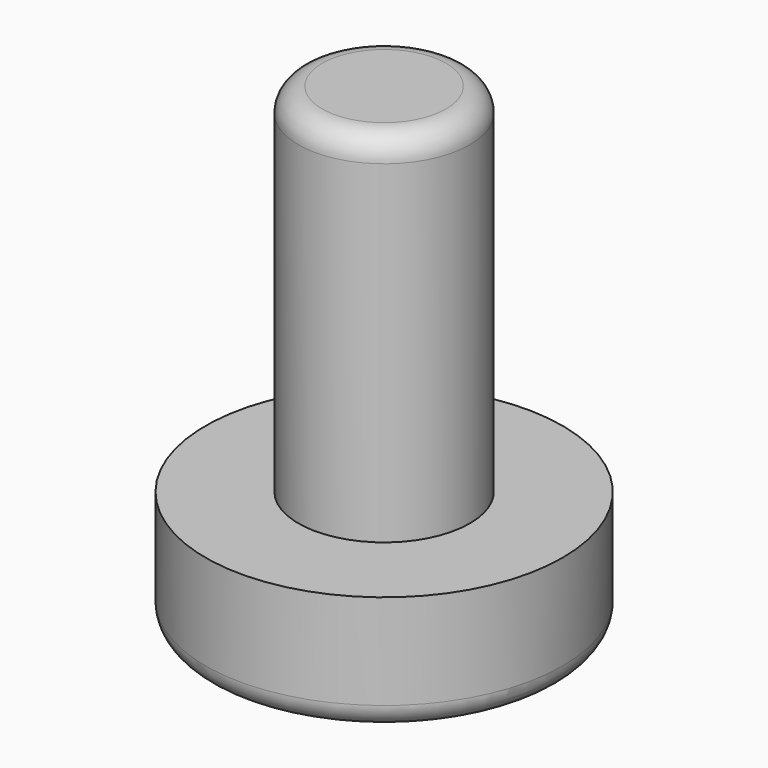
from build123d import *

# Parameters (mm, degrees)
F0_R     = 3.6
F1_DEPTH = 15
F0_R_2   = 7.5
F2_DEPTH = 5
F3_R     = 1


with BuildPart() as f1:
    # F0 (on Top) → F1 (new body)
    with BuildSketch(Plane.XY):
        Circle(F0_R)
    extrude(amount=F1_DEPTH)

    # F0 (on Top) → F2 (join)
    with BuildSketch(Plane.XY):
        Circle(F0_R_2)
        Circle(F0_R, mode=Mode.SUBTRACT)
        Circle(F0_R)
    extrude(amount=-F2_DEPTH)

    # F3
    f3_edges = [f1.edges().sort_by_distance(p)[0] for p in [
        (-3.6, 0, 15),
        (-7.5, 0, -5),
    ]]
    fillet(f3_edges, radius=F3_R)


solid = f1.part
